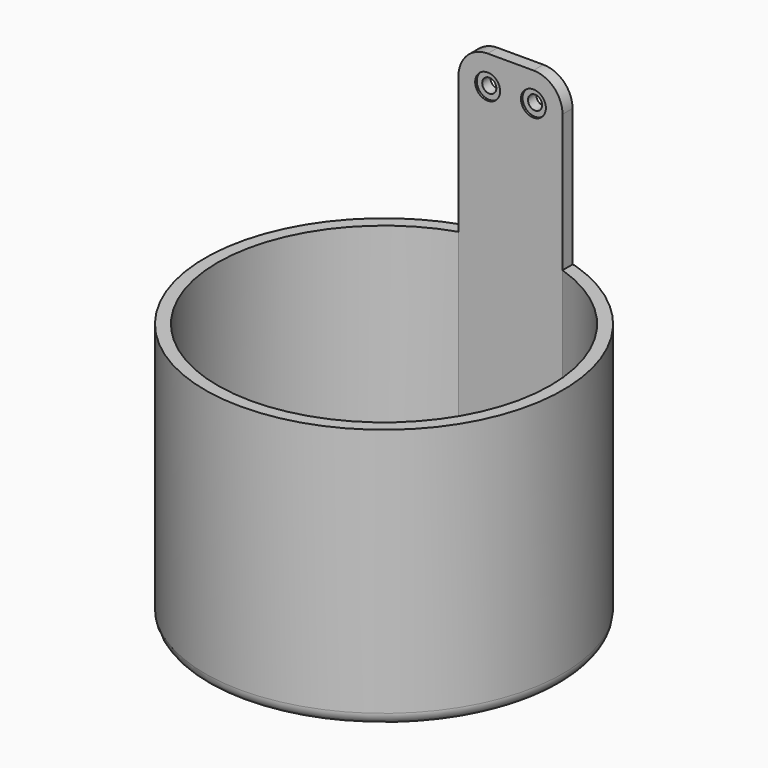
from build123d import *

# Parameters (mm, degrees)
PAD_DEPTH        = 60
THICKNESS_T      = 3
SKETCH001_W      = 25
SKETCH001_H      = 3
PAD001_DEPTH     = 40
HOLE_D           = 3.4
HOLE_DEPTH       = 12
HOLE_CBORE_D     = 6
HOLE_CBORE_DEPTH = 0.5
FILLET_R         = 7


with BuildPart() as part:
    # Sketch → Pad (new body)
    with BuildSketch(Plane.XY):
        with BuildLine():
            ThreePointArc((-12.5, 37.99671), (0, -40), (12.5, 37.99671))
            Line((-12.5, 37.99671), (12.5, 37.99671))
        make_face()
    extrude(amount=PAD_DEPTH)

    # Thickness
    thickness_openings = [part.faces().sort_by_distance(p)[0] for p in [
        (0, -0.260782, 60),
    ]]
    offset(amount=THICKNESS_T, openings=thickness_openings)

    # Sketch001 (on Face4 of Thickness) → Pad001 (join)
    with BuildSketch(Plane.XY.offset(60)):
        with Locations((0, 39.49671)):
            Rectangle(SKETCH001_W, SKETCH001_H)
    extrude(amount=PAD001_DEPTH)

    # Hole
    with Locations(Plane.XZ.offset(-37.99671)):
        with Locations((-5.5, 93), (5.5, 93)):
            CounterBoreHole(HOLE_D / 2, HOLE_CBORE_D / 2, HOLE_CBORE_DEPTH, depth=HOLE_DEPTH)

    # Fillet
    fillet_edges = [part.edges().sort_by_distance(p)[0] for p in [
        (12.5, 39.49671, 100),
        (-12.5, 39.49671, 100),
    ]]
    fillet(fillet_edges, radius=FILLET_R)


solid = part.part
